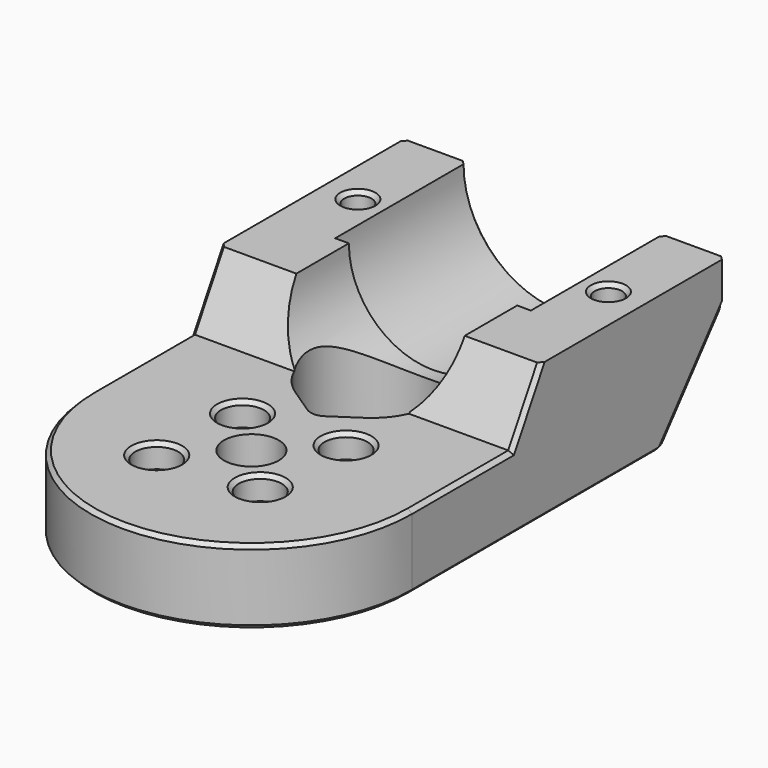
from build123d import *

# Parameters (mm, degrees)
EXTRUDE077_DEPTH                     = 23
EXTRUDE077_PLACEMENT_ANGLE           = 45
EXTRUDE076_DEPTH                     = 23
EXTRUDE076_PLACEMENT_ANGLE           = -45
EXTRUDE049_DEPTH                     = 5
SKETCH050_AS_DRAWN_R                 = 10.75
EXTRUDE048_DEPTH                     = 27
EXTRUDE048_ONTO_SKETCH050_ROLL_ANGLE = 90
SKETCH052_R                          = 2.75
EXTRUDE050_DEPTH                     = 3
SKETCH046_R                          = 3.5
SKETCH046_R_2                        = 1.75
SKETCH046_R_3                        = 1.65
EXTRUDE044_DEPTH                     = 30
SKETCH047_AS_DRAWN_R                 = 12.5
EXTRUDE047_DEPTH                     = 50
EXTRUDE047_ONTO_SKETCH047_ROLL_ANGLE = 90
EXTRUDE045_DEPTH                     = 60
SKETCH049_AS_DRAWN_W                 = 50
SKETCH049_AS_DRAWN_H                 = 17.5
EXTRUDE046_DEPTH                     = 78
EXTRUDE046_ONTO_SKETCH049_ROLL_ANGLE = 90
CHAMFER_SIZE                         = 0.5
CHAMFER_PLACEMENT_ANGLE              = 180


with BuildPart() as extrude077:
    # Sketch077 → Extrude077 (new body)
    with BuildSketch(Plane.YZ):
        Polygon((-8.660254, 15), (0, 15), (0, 0), align=None)
    extrude(amount=-EXTRUDE077_DEPTH)


with BuildPart() as extrude077_1:
    # Extrude077 placement: moved
    add(extrude077.part.moved(Location((-13, 0, 0))).rotate(Axis((-13, 0, 0), (0, 0, 1)), EXTRUDE077_PLACEMENT_ANGLE))


with BuildPart() as fusion032:
    # Sketch077 → Extrude076 (new body)
    with BuildSketch(Plane.YZ):
        Polygon((-8.660254, 15), (0, 15), (0, 0), align=None)
    extrude(amount=EXTRUDE076_DEPTH)


with BuildPart() as fusion032_1:
    # Extrude076 placement: moved
    add(fusion032.part.moved(Location((13, 0, 0))).rotate(Axis((13, 0, 0), (0, 0, 1)), EXTRUDE076_PLACEMENT_ANGLE))

    # Fusion032: union Extrude077
    add(extrude077_1.part)


with BuildPart() as fusion032_2:
    # Fusion032 placement: moved
    add(fusion032_1.part.moved(Location((0, 59, 3))))


with BuildPart() as extrude049:
    # Sketch051 → Extrude049 (new body)
    with BuildSketch(Plane(origin=(0, 40, 0), x_dir=(1, 0, 0), z_dir=(0, 0, 1))):
        Polygon((-16, 0.25), (-13.185417, -1.375), (-13.185417, -4.625), (-16, -6.25), (-18.814583, -4.625), (-18.814583, -1.375), align=None)
        Polygon((16, 0.25), (18.814583, -1.375), (18.814583, -4.625), (16, -6.25), (13.185417, -4.625), (13.185417, -1.375), align=None)
    extrude(amount=EXTRUDE049_DEPTH)


with BuildPart() as extrude049_1:
    # Extrude049 placement: moved
    add(extrude049.part.moved(Location((0, 0, 13))))


with BuildPart() as extrude048:
    # Sketch050 as drawn → Extrude048 (new)
    with BuildSketch(Plane.XY):
        Circle(SKETCH050_AS_DRAWN_R)
    extrude(amount=-EXTRUDE048_DEPTH)


with BuildPart() as extrude048_1:
    # Extrude048 onto Sketch050 roll: moved
    add(extrude048.part.rotate(Axis((0, 0, 0), (1, 0, 0)), EXTRUDE048_ONTO_SKETCH050_ROLL_ANGLE))


with BuildPart() as extrude048_2:
    # Extrude048 onto Sketch050 placement: moved
    add(extrude048_1.part.moved(Location((0, 33, 0))))


with BuildPart() as extrude048_3:
    # Extrude048 placement: moved
    add(extrude048_2.part.moved(Location((0, -17, 0))))


with BuildPart() as extrude050:
    # Sketch052 → Extrude050 (new body)
    with BuildSketch(Plane.XY):
        with Locations((-6.717514, 6.717514)):
            Circle(SKETCH052_R)
        with Locations((5.656854, 5.656854)):
            Circle(SKETCH052_R)
        with Locations((6.717514, -6.717514)):
            Circle(SKETCH052_R)
        with Locations((-5.656854, -5.656854)):
            Circle(SKETCH052_R)
    extrude(amount=EXTRUDE050_DEPTH)


with BuildPart() as extrude050_1:
    # Extrude050 placement: moved
    add(extrude050.part.moved(Location((0, 0, 8))))


with BuildPart() as extrude044:
    # Sketch046 → Extrude044 (new body)
    with BuildSketch(Plane.XY):
        Circle(SKETCH046_R)
        with Locations((-16, 37)):
            Circle(SKETCH046_R_2)
        with Locations((16, 37)):
            Circle(SKETCH046_R_2)
        with Locations((6.717514, -6.717514)):
            Circle(SKETCH046_R_3)
        with Locations((-6.717514, 6.717514)):
            Circle(SKETCH046_R_3)
        with Locations((-5.656854, -5.656854)):
            Circle(SKETCH046_R_3)
        with Locations((5.656854, 5.656854)):
            Circle(SKETCH046_R_3)
        with BuildLine():
            ThreePointArc((4.437602, 12.5547), (0, 27.211103), (-4.437602, 12.5547))
            Line((-4.437602, 12.5547), (-1.1094, 10.335899))
            ThreePointArc((-1.1094, 10.335899), (0, 10), (1.1094, 10.335899))
            Line((4.437602, 12.5547), (1.1094, 10.335899))
        make_face()
        with BuildLine():
            Line((-20.5, 0), (-20.5, 70))
            Line((-20.5, 70), (-29.5, 70))
            Line((-29.5, 70), (-29.5, -30))
            Line((-29.5, -30), (29.5, -30))
            Line((29.5, -30), (29.5, 70))
            Line((29.5, 70), (20.5, 70))
            Line((20.5, 70), (20.5, 0))
            ThreePointArc((-20.5, 0), (0, -20.5), (20.5, 0))
        make_face()
    extrude(amount=EXTRUDE044_DEPTH)


with BuildPart() as extrude047:
    # Sketch047 as drawn → Extrude047 (new)
    with BuildSketch(Plane.XY):
        Circle(SKETCH047_AS_DRAWN_R)
    extrude(amount=-EXTRUDE047_DEPTH)


with BuildPart() as extrude047_1:
    # Extrude047 onto Sketch047 roll: moved
    add(extrude047.part.rotate(Axis((0, 0, 0), (1, 0, 0)), EXTRUDE047_ONTO_SKETCH047_ROLL_ANGLE))


with BuildPart() as extrude047_2:
    # Extrude047 onto Sketch047 placement: moved
    add(extrude047_1.part.moved(Location((0, 32, 0))))


with BuildPart() as extrude047_3:
    # Extrude047 placement: moved
    add(extrude047_2.part.moved(Location((0, -3, 0))))


with BuildPart() as extrude045:
    # Sketch048 → Extrude045 (new body)
    with BuildSketch(Plane.YZ.offset(33)):
        Polygon((-30, 8), (16, 8), (20.618802, 0), (-30, 0), align=None)
    extrude(amount=-EXTRUDE045_DEPTH)


with BuildPart() as chamfer_body:
    # Sketch049 as drawn → Extrude046 (new)
    with BuildSketch(Plane.XY):
        with Locations((0, 8.75)):
            Rectangle(SKETCH049_AS_DRAWN_W, SKETCH049_AS_DRAWN_H)
    extrude(amount=-EXTRUDE046_DEPTH)


with BuildPart() as chamfer_body_1:
    # Extrude046 onto Sketch049 roll: moved
    add(chamfer_body.part.rotate(Axis((0, 0, 0), (1, 0, 0)), EXTRUDE046_ONTO_SKETCH049_ROLL_ANGLE))


with BuildPart() as chamfer_body_2:
    # Extrude046 onto Sketch049 placement: moved
    add(chamfer_body_1.part.moved(Location((0, -28, 0))))

    # Cut029: cut Extrude045
    add(extrude045.part, mode=Mode.SUBTRACT)

    # Cut001: cut Extrude047
    add(extrude047_3.part, mode=Mode.SUBTRACT)

    # Cut030: cut Extrude044
    add(extrude044.part, mode=Mode.SUBTRACT)

    # Cut031: cut Extrude050
    add(extrude050_1.part, mode=Mode.SUBTRACT)

    # Cut004: cut Extrude048
    add(extrude048_3.part, mode=Mode.SUBTRACT)

    # Cut005: cut Extrude049
    add(extrude049_1.part, mode=Mode.SUBTRACT)

    # Cut043: cut Fusion032
    add(fusion032_2.part, mode=Mode.SUBTRACT)

    # Chamfer
    chamfer_edges = [chamfer_body_2.edges().sort_by_distance(p)[0] for p in [
        (0, -20.5, 17.5),
        (20.5, 19.8304, 17.5),
        (15.3304, 44.8304, 17.5),
        (0, 50, 17.5),
        (-15.3304, 44.8304, 17.5),
        (-20.5, 19.8304, 17.5),
        (-14.592709, 39.4375, 17.5),
        (-17.407291, 39.4375, 17.5),
        (-13.185417, 37, 17.5),
        (-18.814583, 37, 17.5),
        (-14.592709, 34.5625, 17.5),
        (-17.407291, 34.5625, 17.5),
        (-7.306854, -5.656854, 17.5),
        (-8.367514, 6.717514, 17.5),
        (0, 27.211103, 17.5),
        (-2.773501, 11.4453, 17.5),
        (2.773501, 11.4453, 17.5),
        (0, 10, 17.5),
        (-3.5, 0, 17.5),
        (14.592709, 39.4375, 17.5),
        (13.185417, 37, 17.5),
        (17.407291, 39.4375, 17.5),
        (14.592709, 34.5625, 17.5),
        (18.814583, 37, 17.5),
        (17.407291, 34.5625, 17.5),
        (4.006854, 5.656854, 17.5),
        (5.067514, -6.717514, 17.5),
        (0, -20.5, 8),
        (20.5, 18.309401, 4),
        (20.5, 8, 8),
        (20.5, 44.8304, 11.168559),
        (20.5, 50, 2.418559),
        (15.3304, 50, 11.168559),
        (0, 50, 12.5),
        (-20.5, 50, 2.418559),
        (-15.3304, 50, 11.168559),
        (-20.5, 44.8304, 11.168559),
        (-20.5, 8, 8),
        (-20.5, 18.309401, 4),
        (13.185417, 38.625, 15.25),
        (3.967514, -6.717514, 8),
        (-8.406854, -5.656854, 8),
        (2.906854, 5.656854, 8),
        (-9.467514, 6.717514, 8),
        (14.25, 37, 0),
        (-17.75, 37, 0),
    ]]
    chamfer(chamfer_edges, length=CHAMFER_SIZE)


with BuildPart() as chamfer_body_3:
    # Chamfer placement: moved
    add(chamfer_body_2.part.rotate(Axis((0, 0, 0), (0, 1, 0)), CHAMFER_PLACEMENT_ANGLE))


solid = chamfer_body_3.part
